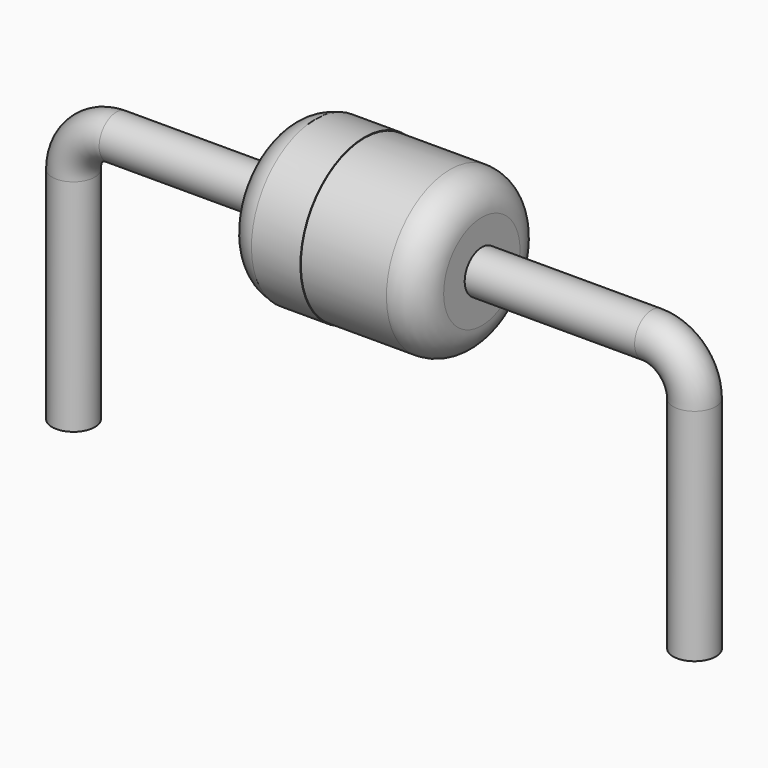
from build123d import *

# Parameters (mm, degrees)
SKETCH002_W = 3.2
SKETCH002_H = 1.3
FILLET_R    = 0.52
SKETCH003_W = 0.8
SKETCH003_H = 0.02
SKETCH_R    = 0.35


with BuildPart() as fillet_body:
    # Sketch002 → Revolution (revolve)
    with BuildSketch(Plane.XZ):
        with Locations((5.08, 2.45)):
            Rectangle(SKETCH002_W, SKETCH002_H)
    revolve(axis=Axis((3.48, 0, 1.8), (1, 0, 0)))

    # Fillet
    fillet_edges = [fillet_body.edges().sort_by_distance(p)[0] for p in [
        (3.48, 0, 0.5),
        (6.68, 0, 0.5),
    ]]
    fillet(fillet_edges, radius=FILLET_R)


with BuildPart() as revolution001:
    # Sketch003 → Revolution001 (revolve)
    with BuildSketch(Plane.XZ):
        with Locations((4.36, 3.1)):
            Rectangle(SKETCH003_W, SKETCH003_H)
    revolve(axis=Axis((0, 0, 1.8), (1, 0, 0)))


with BuildPart() as sweep_body:
    # Sweep: sweep along a path in Sketch001
    with BuildLine(Plane.XZ) as sweep_path:
        Line((0, -2.5), (0, 1.1))
        ThreePointArc((0, 1.1), (0.205025, 1.594975), (0.7, 1.8))
        Line((0.7, 1.8), (9.46, 1.8))
        ThreePointArc((9.46, 1.8), (9.954975, 1.594975), (10.16, 1.1))
        Line((10.16, 1.1), (10.16, -2.5))
    # Sketch → Sweep (sweep)
    with BuildSketch(Plane.XY.offset(-2)):
        Circle(SKETCH_R)
    sweep(path=sweep_path.line)


solid = Compound([fillet_body.part, revolution001.part, sweep_body.part])
